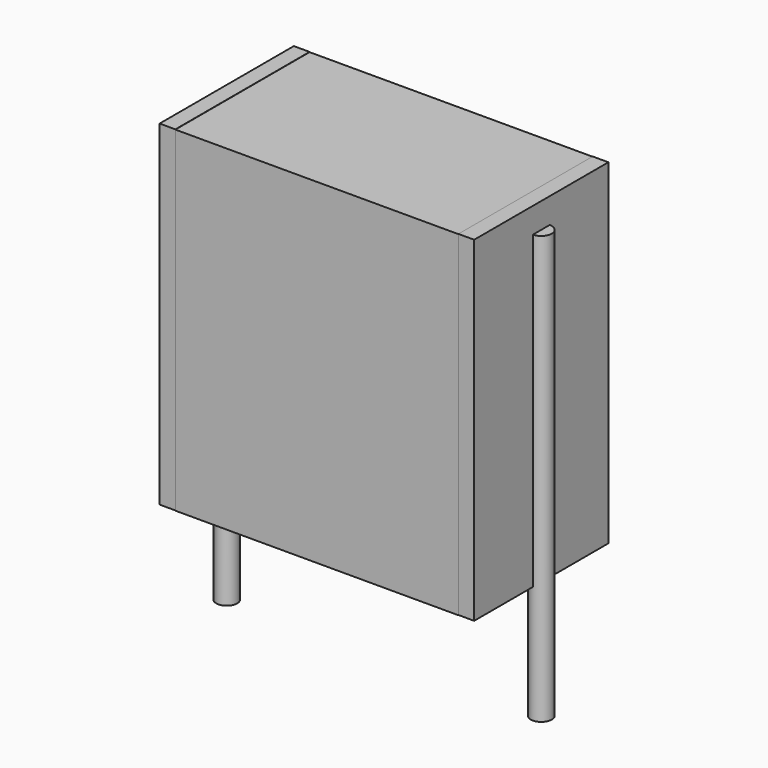
from build123d import *

# Parameters (mm, degrees)
SKETCH_W          = 6.75
SKETCH_H          = 4
PAD_DEPTH         = 8
SKETCH001_R       = 0.25
PAD001_DEPTH      = 7
PAD001_DEPTH_BACK = 3.2
SKETCH002_W       = 0.375
SKETCH002_H       = 4
PAD002_DEPTH      = 8


with BuildPart() as pad:
    # Sketch → Pad (new body)
    with BuildSketch(Plane.XY.offset(0.1)):
        with Locations((3.75, 0)):
            Rectangle(SKETCH_W, SKETCH_H)
    extrude(amount=PAD_DEPTH)


with BuildPart() as pad001:
    # Sketch001 → Pad001 (new body, two sides)
    with BuildSketch(Plane.XY.offset(0.5)) as pad001_sk:
        Circle(SKETCH001_R)
        with Locations((7.5, 0)):
            Circle(SKETCH001_R)
    extrude(amount=PAD001_DEPTH)
    extrude(pad001_sk.sketch, amount=-PAD001_DEPTH_BACK)


with BuildPart() as pad002:
    # Sketch002 → Pad002 (new body)
    with BuildSketch(Plane.XY.offset(0.105)):
        with Locations((0.1875, 0)):
            Rectangle(SKETCH002_W, SKETCH002_H)
        with Locations((7.3125, 0)):
            Rectangle(SKETCH002_W, SKETCH002_H)
    extrude(amount=PAD002_DEPTH)


solid = Compound([pad.part, pad001.part, pad002.part])
